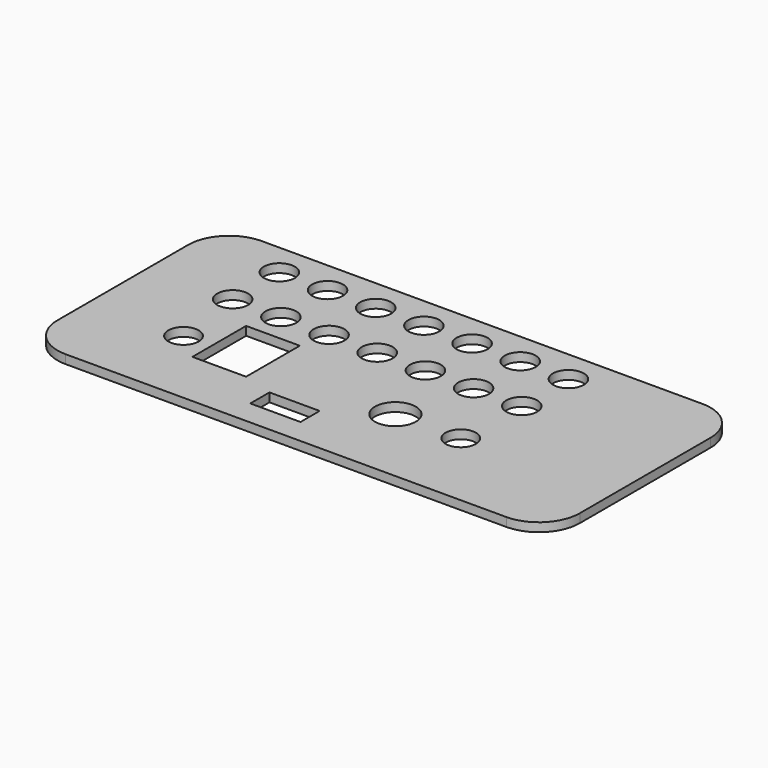
from build123d import *

# Parameters (mm, degrees)
F0_W     = 8.6
F0_H     = 4.1
F0_W_2   = 9.2
F0_H_2   = 11.5
F1_DEPTH = 1.5
F2_D     = 5.2
F2_DEPTH = 2
F2_TIP   = 1.5622376095
F3_D     = 7
F3_DEPTH = 2
F3_TIP   = 2.1030121666
F4_D     = 5.3
F4_DEPTH = 2
F4_TIP   = 1.5922806404


with BuildPart() as f1:
    # F0 (on Top) → F1 (new body)
    with BuildSketch(Plane.XY):
        with BuildLine():
            Line((-37.75, -21), (37.75, -21))
            ThreePointArc((37.75, -21), (42.6997474683, -18.9497474683), (44.75, -14))
            Line((44.75, -14), (44.75, 14))
            ThreePointArc((44.75, 14), (42.6997474683, 18.9497474683), (37.75, 21))
            Line((37.75, 21), (-37.75, 21))
            ThreePointArc((-37.75, 21), (-42.6997474683, 18.9497474683), (-44.75, 14))
            Line((-44.75, 14), (-44.75, -14))
            ThreePointArc((-44.75, -14), (-42.6997474683, -18.9497474683), (-37.75, -21))
        make_face()
        with Locations((-5.25, -14.65)):
            Rectangle(F0_W, F0_H, mode=Mode.SUBTRACT)
        with Locations((-19.43, -5.25)):
            Rectangle(F0_W_2, F0_H_2, mode=Mode.SUBTRACT)
    extrude(amount=F1_DEPTH)

    # F2
    with Locations(Plane(origin=(0, 0, 0), x_dir=(1, 0, 0), z_dir=(0, 0, -1))):
        with Locations((18.75, 7), (-28.75, 7)):
            Hole(F2_D / 2, depth=F2_DEPTH)
            with Locations((0, 0, -(F2_DEPTH + F2_TIP / 2))):  # 118° drill point
                Cone(0, F2_D / 2, F2_TIP, mode=Mode.SUBTRACT)

    # F3
    with Locations(Plane(origin=(0, 0, 0), x_dir=(1, 0, 0), z_dir=(0, 0, -1))):
        with Locations((7.55, 7)):
            Hole(F3_D / 2, depth=F3_DEPTH)
            with Locations((0, 0, -(F3_DEPTH + F3_TIP / 2))):  # 118° drill point
                Cone(0, F3_D / 2, F3_TIP, mode=Mode.SUBTRACT)

    # F4
    with Locations(Plane(origin=(0, 0, 0), x_dir=(1, 0, 0), z_dir=(0, 0, -1))):
        with Locations((-30.2482247353, -5.4), (-30.2482247353, -15.4), (-21.9932247353, -15.4), (-21.9932247353, -5.4), (-13.7382247353, -15.4), (-13.7382247353, -5.4), (-5.4832247353, -15.4), (-5.4832247353, -5.4), (2.7717752647, -15.4), (2.7717752647, -5.4), (11.0267752647, -15.4), (11.0267752647, -5.4), (19.2817752647, -15.4), (19.2817752647, -5.4)):
            Hole(F4_D / 2, depth=F4_DEPTH)
            with Locations((0, 0, -(F4_DEPTH + F4_TIP / 2))):  # 118° drill point
                Cone(0, F4_D / 2, F4_TIP, mode=Mode.SUBTRACT)


solid = f1.part
